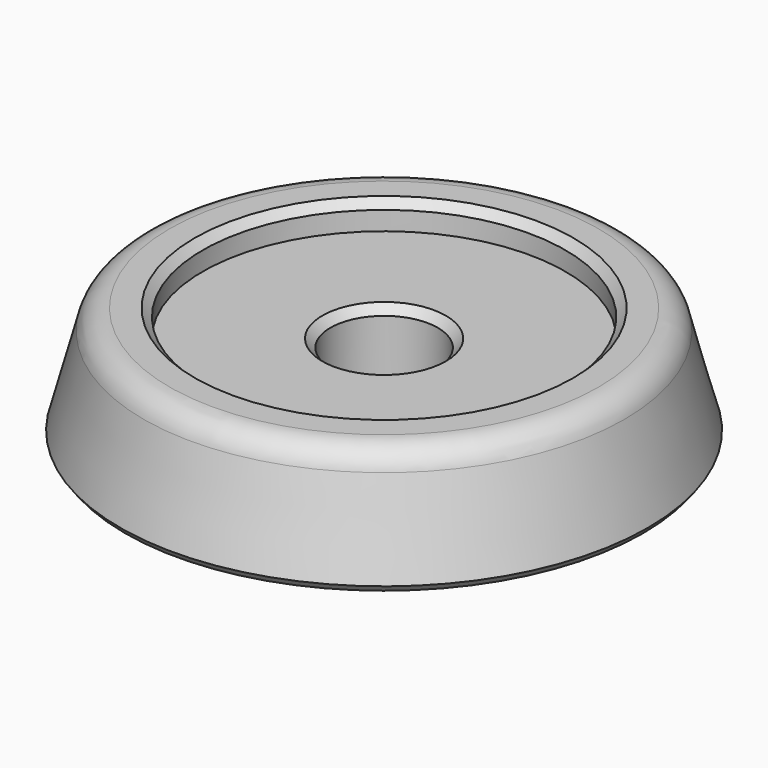
from build123d import *

# Parameters (mm, degrees)
F2_SIZE = 0.6
F3_R    = 2
F4_SIZE = 0.5


with BuildPart() as f1:
    # F0 (on Front) → F1 (revolve)
    with BuildSketch(Plane.XZ):
        Polygon((4, 6.5), (4, 0), (19.777568, 0), (17.5, 8.5), (13.5, 8.5), (13.5, 6.5), align=None)
    revolve(axis=Axis((0, 0, 2.242119), (0, 0, 1)))

    # F2
    f2_edges = [f1.edges().sort_by_distance(p)[0] for p in [
        (-13.5, 0, 8.5),
        (-4, 0, 6.5),
        (-4, 0, 0),
    ]]
    chamfer(f2_edges, length=F2_SIZE)

    # F3
    f3_edges = [f1.edges().sort_by_distance(p)[0] for p in [
        (-17.5, 0, 8.5),
    ]]
    fillet(f3_edges, radius=F3_R)

    # F4
    f4_edges = [f1.edges().sort_by_distance(p)[0] for p in [
        (-19.777568, 0, 0),
    ]]
    chamfer(f4_edges, length=F4_SIZE)


solid = f1.part
